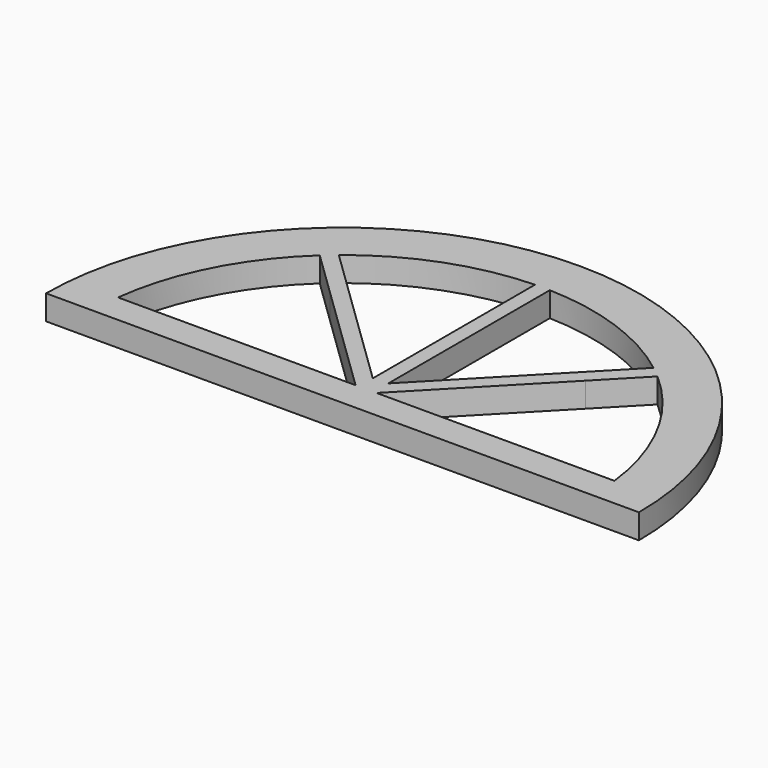
from build123d import *

# Parameters (mm, degrees)
F1_DEPTH = 25


with BuildPart() as f1:
    # F0 (on Top) → F1 (new body)
    with BuildSketch(Plane.XY):
        with BuildLine():
            Line((0, 0), (300, 0))
            ThreePointArc((300, 0), (0, 300), (-300, 0))
            Line((-300, 0), (0, 0))
        make_face()
        with BuildLine():
            Line((-124.941406, 140.556872), (-10.780853, 30))
            Line((-10.780853, 30), (-251.194193, 30))
            ThreePointArc((-251.194193, 30), (-225.330297, 114.999042), (-171.673456, 185.813742))
            Line((-171.673456, 185.813742), (-124.941406, 140.556872))
        make_face(mode=Mode.SUBTRACT)
        with BuildLine():
            ThreePointArc((166.14148, 190.776128), (223.616875, 118.296305), (251.194193, 30))
            Line((251.194193, 30), (10.440536, 30))
            Line((10.440536, 30), (126.31606, 149.65257))
            Line((126.31606, 149.65257), (166.14148, 190.776128))
        make_face(mode=Mode.SUBTRACT)
        with BuildLine():
            Line((-7.5, 47.703785), (-160.316609, 195.696467))
            ThreePointArc((-160.316609, 195.696467), (-88.643964, 236.940436), (-7.5, 252.868093))
            Line((-7.5, 252.868093), (-7.5, 187.733397))
            Line((-7.5, 187.733397), (-7.5, 47.703785))
        make_face(mode=Mode.SUBTRACT)
        with BuildLine():
            Line((7.5, 48.52532), (7.5, 187.733397))
            Line((7.5, 187.733397), (7.5, 252.868093))
            ThreePointArc((7.5, 252.868093), (85.155814, 238.216309), (154.501959, 200.318914))
            Line((154.501959, 200.318914), (115.540751, 160.087737))
            Line((115.540751, 160.087737), (7.5, 48.52532))
        make_face(mode=Mode.SUBTRACT)
    extrude(amount=F1_DEPTH)


solid = f1.part
